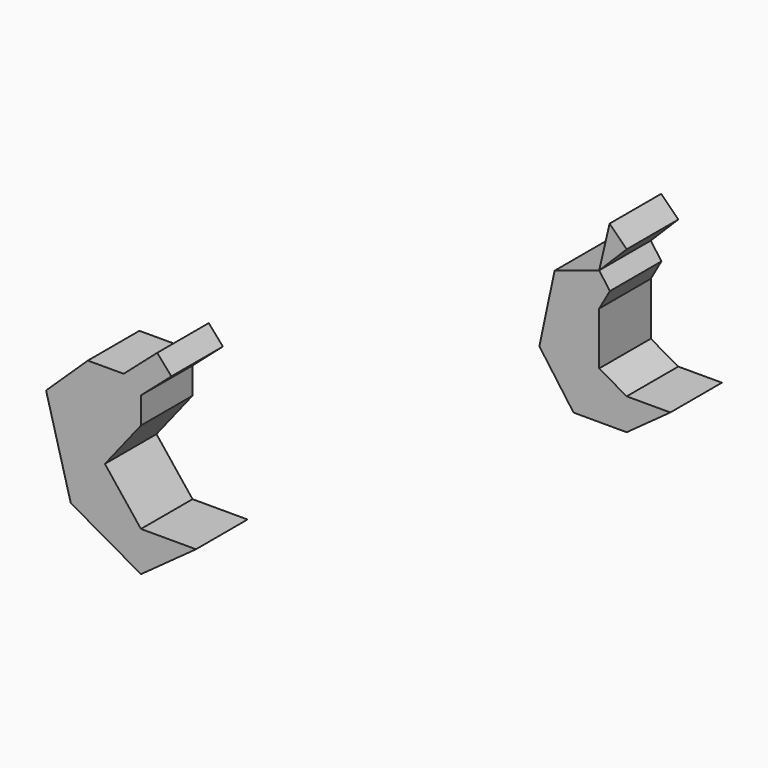
from build123d import *

# Parameters (mm, degrees)
F1_DEPTH = 9.906


with BuildPart() as f1:
    # F0 (on Front) → F1 (new body)
    with BuildSketch(Plane.XZ):
        Polygon((-28.856065, -30.750657), (-20.403279, -24.629673), (-28.856065, -24.629673), (-34.3941, -17.634263), (-28.856065, -10.638853), (-28.856065, -6.558197), (-24.19246, -2.477541), (-26.360309, 0), (-31.519165, -4.514001), (-37.017379, -4.514001), (-43.429837, -10.638853), (-39.640658, -24.629673), align=None)
        Polygon((43.177692, 30.960053), (41.535243, 33.228196), (34.685574, 30.960053), (32.347908, 19.966066), (37.600327, 12.712725), (45.761637, 12.712725), (52.465577, 17.567302), (45.761637, 17.567302), (41.535243, 19.966066), (41.535243, 28.066215), align=None)
        Polygon((45.761637, 37.45459), (43.138359, 40.077869), (41.535243, 33.228196), align=None)
    extrude(amount=F1_DEPTH)


solid = f1.part
